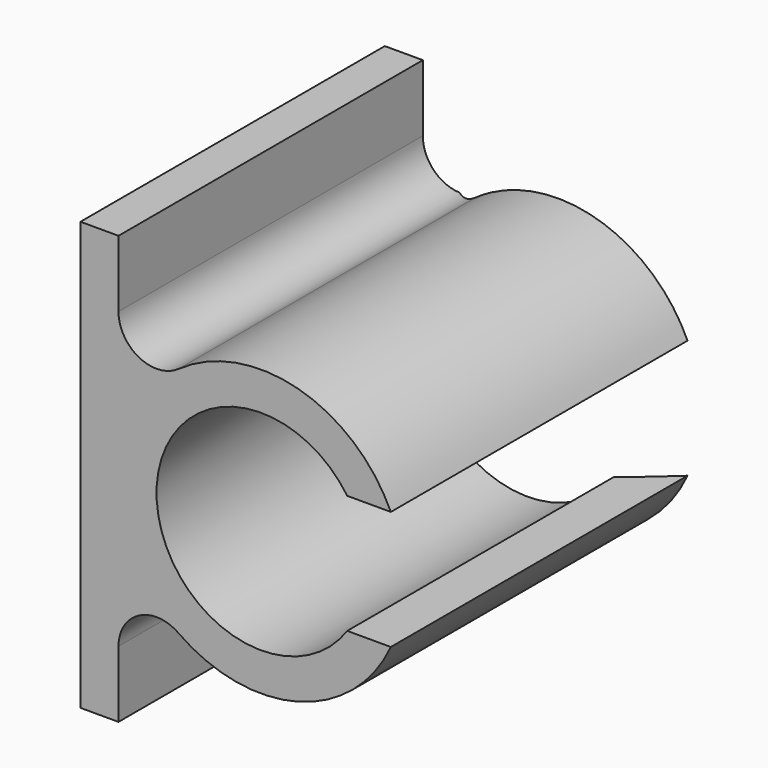
from build123d import *

# Parameters (mm, degrees)
F1_DEPTH = 8
F2_SIZE  = 1


with BuildPart() as f1:
    # F0 (on Front) → F1 (new body)
    with BuildSketch(Plane.XZ):
        with BuildLine():
            Line((0, 4.5), (0, 0))
            Line((0, 0), (0, -4.5))
            Line((0, -4.5), (0.8, -4.5))
            Line((0.8, -4.5), (0.8, -3.098387))
            ThreePointArc((0.8, -3.098387), (1.232935, -2.387568), (2.063158, -2.446095))
            ThreePointArc((2.063158, -2.446095), (4.576435, -2.897783), (6.527178, -1.25))
            Line((6.527178, -1.25), (5.610387, -1.25))
            ThreePointArc((5.610387, -1.25), (1.6, 0), (5.610387, 1.25))
            Line((5.610387, 1.25), (6.527178, 1.25))
            ThreePointArc((6.527178, 1.25), (4.576435, 2.897783), (2.063158, 2.446095))
            ThreePointArc((2.063158, 2.446095), (1.232935, 2.387568), (0.8, 3.098387))
            Line((0.8, 3.098387), (0.8, 4.5))
            Line((0.8, 4.5), (0, 4.5))
        make_face()
    extrude(amount=F1_DEPTH)

    # F2
    f2_edges = [f1.edges().sort_by_distance(p)[0] for p in [
        (1.6, 0, 0),
    ]]
    chamfer(f2_edges, length=F2_SIZE)


solid = f1.part
